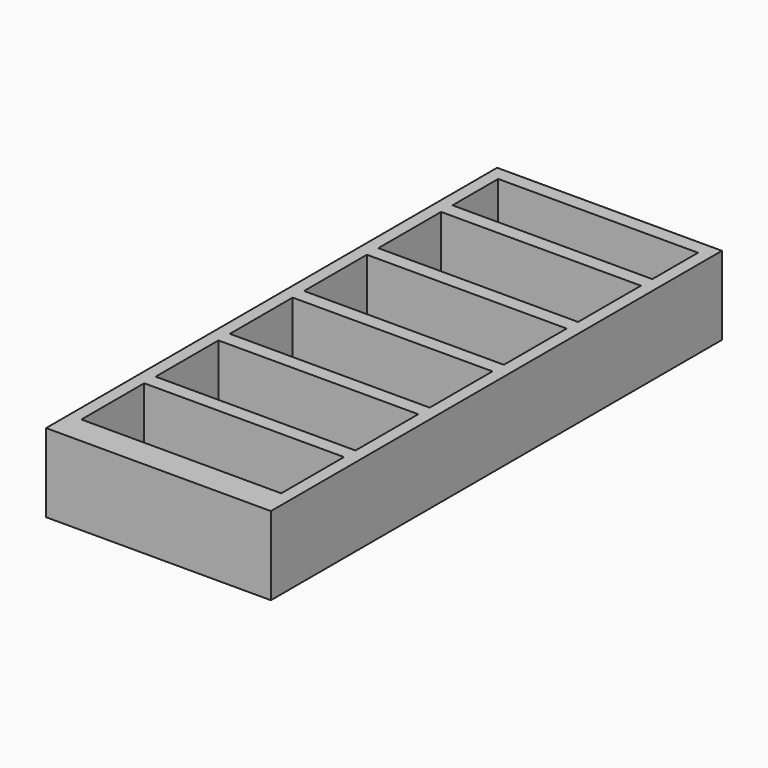
from build123d import *

# Parameters (mm, degrees)
F0_W     = 31.5
F0_H     = 11
F1_DEPTH = 79
F2_W     = 28
F2_H     = 8
F2_H_2   = 11
F3_DEPTH = 10


with BuildPart() as f1:
    # F0 (on Front) → F1 (new body)
    with BuildSketch(Plane.XZ):
        Rectangle(F0_W, F0_H)
    extrude(amount=F1_DEPTH)

    # F2 (on face) → F3 (cut)
    with BuildSketch(Plane.XY.offset(5.5)):
        with Locations((0, -6)):
            Rectangle(F2_W, F2_H)
        with Locations((0, -17.5)):
            Rectangle(F2_W, F2_H_2)
        with Locations((0, -30.5)):
            Rectangle(F2_W, F2_H_2)
        with Locations((0, -43.5)):
            Rectangle(F2_W, F2_H_2)
        with Locations((0, -56.5)):
            Rectangle(F2_W, F2_H_2)
        with Locations((0, -69.5)):
            Rectangle(F2_W, F2_H_2)
    extrude(amount=-F3_DEPTH, mode=Mode.SUBTRACT)


solid = f1.part
